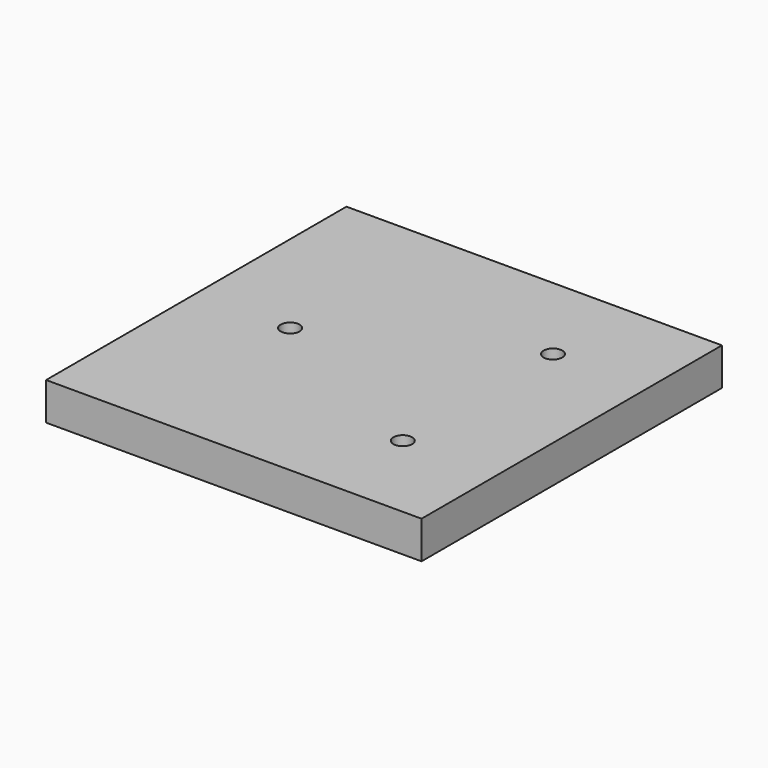
from build123d import *

# Parameters (mm, degrees)
F0_W     = 100
F0_H     = 100
F1_DEPTH = 10
F2_D     = 5


with BuildPart() as f1:
    # F0 (on Top) → F1 (new body)
    with BuildSketch(Plane.XY):
        with Locations((50, 50)):
            Rectangle(F0_W, F0_H)
    extrude(amount=F1_DEPTH)

    # F2 (through all)
    with Locations(Plane(origin=(0, 0, 0), x_dir=(1, 0, 0), z_dir=(0, 0, -1))):
        with Locations((75, -75), (75, -25), (25, -50)):
            Hole(F2_D / 2)


solid = f1.part
